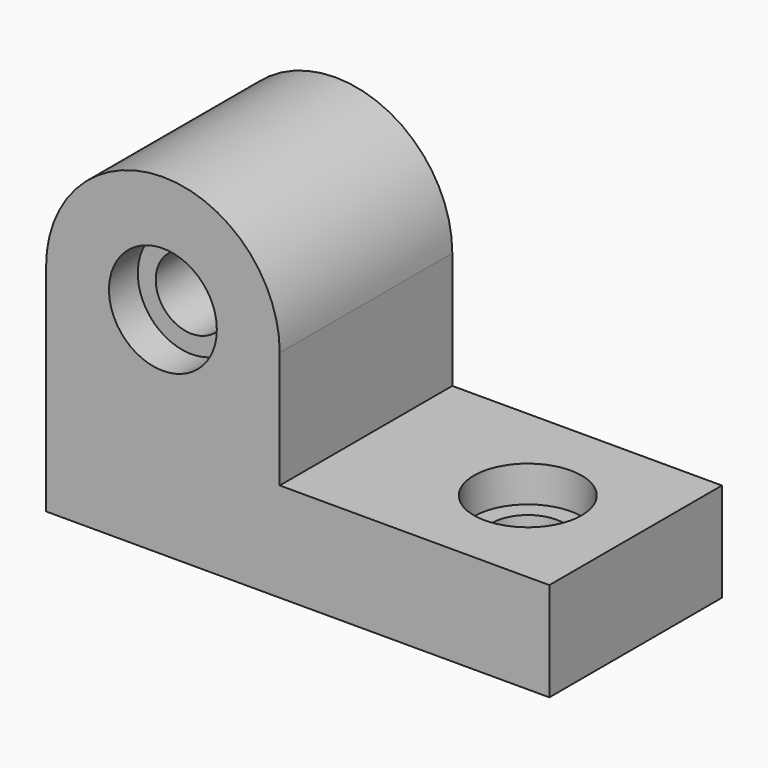
from build123d import *

# Parameters (mm, degrees)
F0_W      = 177.8
F0_H      = 34.925
F1_DEPTH  = 76.2
F2_W      = 82.55
F2_H      = 76.2
F3_DEPTH  = 88.9
F5_DEPTH  = 76.201
F6_R      = 19.05
F7_DEPTH  = 12.7
F8_R      = 12.7
F9_DEPTH  = 34.926
F10_R     = 19.05
F11_DEPTH = 12.7
F12_R     = 12.7
F13_DEPTH = 76.201


with BuildPart() as f1:
    # F0 (on Front) → F1 (new body)
    with BuildSketch(Plane.XZ):
        with Locations((88.9, 17.4625)):
            Rectangle(F0_W, F0_H)
    extrude(amount=F1_DEPTH)

    # F2 (on face) → F3 (join)
    with BuildSketch(Plane.XY.offset(34.925)):
        with Locations((41.275, -38.1)):
            Rectangle(F2_W, F2_H)
    extrude(amount=F3_DEPTH)

    # F4 (on face) → F5 (cut, through all)
    with BuildSketch(Plane.XZ.offset(76.2)):
        with BuildLine():
            ThreePointArc((0, 76.2), (41.275, 117.475), (82.55, 76.2))
            Line((82.55, 76.2), (82.55, 123.825))
            Line((82.55, 123.825), (0, 123.825))
            Line((0, 123.825), (0, 76.2))
        make_face()
    extrude(amount=-F5_DEPTH, mode=Mode.SUBTRACT)

    # F6 (on face) → F7 (cut)
    with BuildSketch(Plane.XY.offset(34.925)):
        with Locations((139.7, -38.1)):
            Circle(F6_R)
    extrude(amount=-F7_DEPTH, mode=Mode.SUBTRACT)

    # F8 (on face) → F9 (cut, through all)
    with BuildSketch(Plane.XY.offset(34.925)):
        with Locations((139.7, -38.1)):
            Circle(F8_R)
    extrude(amount=-F9_DEPTH, mode=Mode.SUBTRACT)

    # F10 (on face) → F11 (cut)
    with BuildSketch(Plane.XZ.offset(76.2)):
        with Locations((41.275, 76.2)):
            Circle(F10_R)
    extrude(amount=-F11_DEPTH, mode=Mode.SUBTRACT)

    # F12 (on face) → F13 (cut, through all)
    with BuildSketch(Plane.XZ.offset(76.2)):
        with Locations((41.275, 76.2)):
            Circle(F12_R)
    extrude(amount=-F13_DEPTH, mode=Mode.SUBTRACT)


solid = f1.part
